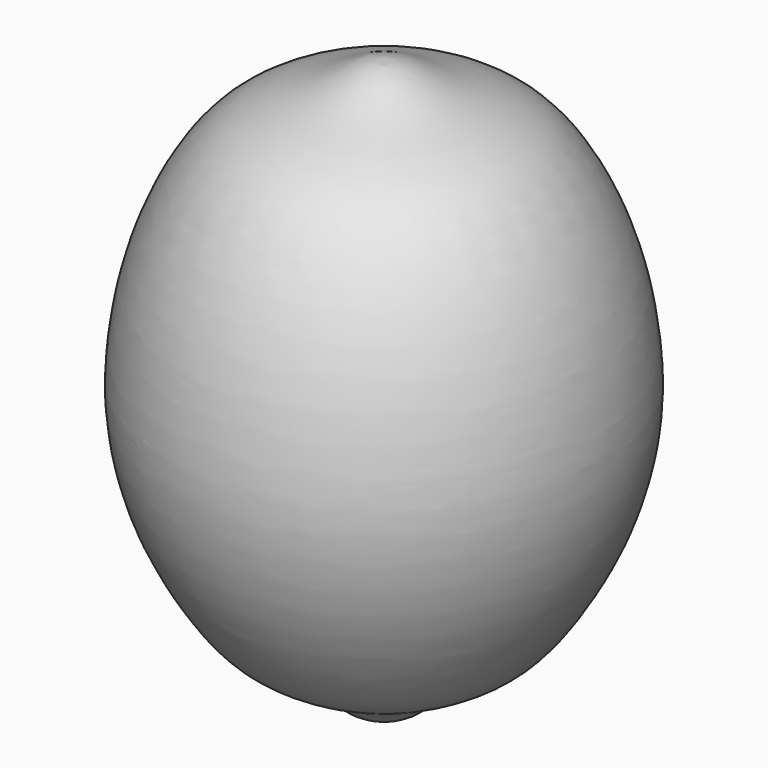
from build123d import *


with BuildPart() as f1:
    # F0 (on Front) → F1 (revolve)
    with BuildSketch(Plane.XZ):
        with BuildLine():
            Line((0, -99.3551164865), (0, 94.234123826))
            add(Edge.make_bspline(
                [(0, -99.3551164865), (-3.4591138661, -99.3880925971), (-10.3787567428, -99.4540609117), (-16.5306500169, -91.0163186885), (-40.3388486884, -81.2796272422), (-53.1517385278, -66.5865004507), (-68.0589521969, -40.7507871168), (-74.8142360224, -11.3607632004), (-73.4722794661, 13.6544997312), (-67.4950643703, 42.6788602359), (-48.7828257647, 77.4062525585), (-21.0829899346, 85.2742899309), (-7.6968146438, 93.9085338341), (-2.5197763462, 94.4020971656), (0, 94.234123826)],
                knots=[0, 0, 0, 0, 0.056303923, 0.1127955285, 0.2031702572, 0.2844817808, 0.3830207017, 0.4829111755, 0.572947638, 0.6724583222, 0.7843750638, 0.8805590451, 0.9511549323, 1, 1, 1, 1], degree=3))
        make_face()
    revolve(axis=Axis((0, 0, -2.5604963303), (0, 0, -1)))


solid = f1.part
